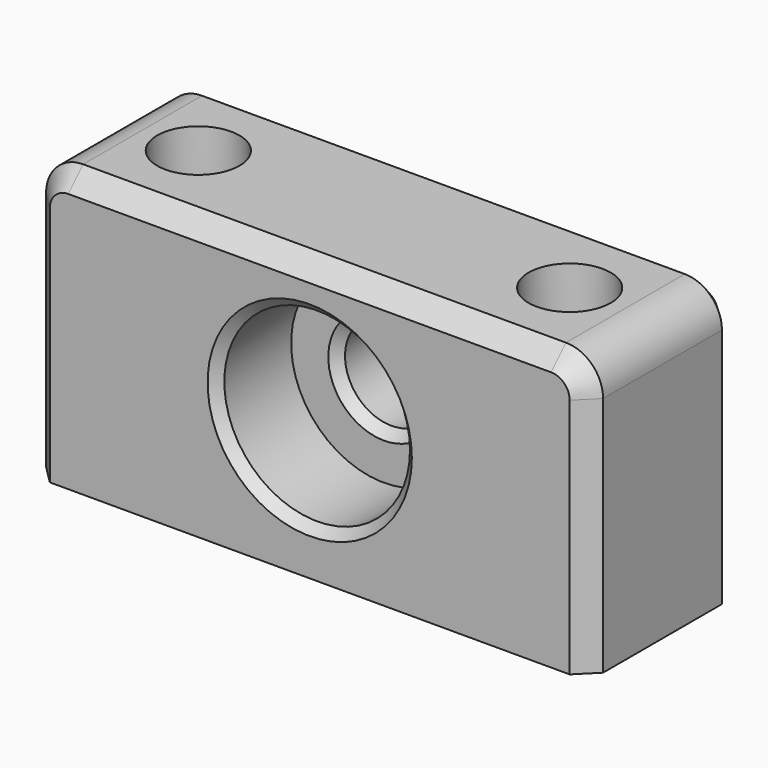
from build123d import *

# Parameters (mm, degrees)
F0_W           = 76.2
F0_H           = 38.1
F1_DEPTH       = 25.4
F2_R           = 5.08
F3_R           = 12.7
F4_DEPTH       = 12.7
F5_R           = 6.35
F6_DEPTH       = 12.701
F8_D           = 6.6
F8_CBORE_D     = 11.25
F8_CBORE_DEPTH = 6
F9_SIZE        = 2.54
F10_SIZE       = 1.27


with BuildPart() as f1:
    # F0 (on Front) → F1 (new body)
    with BuildSketch(Plane.XZ):
        with Locations((38.1, 19.05)):
            Rectangle(F0_W, F0_H)
    extrude(amount=F1_DEPTH)

    # F2
    f2_edges = [f1.edges().sort_by_distance(p)[0] for p in [
        (76.2, -12.7, 38.1),
        (0, -12.7, 38.1),
    ]]
    fillet(f2_edges, radius=F2_R)

    # F3 (on face) → F4 (cut)
    with BuildSketch(Plane.XZ.offset(25.4)):
        with Locations((38.1, 19.05)):
            Circle(F3_R)
    extrude(amount=-F4_DEPTH, mode=Mode.SUBTRACT)

    # F5 (on face) → F6 (cut, through all)
    with BuildSketch(Plane.XZ.offset(12.7)):
        with Locations((38.1, 19.05)):
            Circle(F5_R)
    extrude(amount=-F6_DEPTH, mode=Mode.SUBTRACT)

    # F8 (through all)
    with Locations(Plane.XY.offset(38.1)):
        with Locations((12.7, -12.7), (63.5, -12.7)):
            CounterBoreHole(F8_D / 2, F8_CBORE_D / 2, F8_CBORE_DEPTH)

    # F9
    f9_edges = [f1.edges().sort_by_distance(p)[0] for p in [
        (38.1, -25.4, 38.1),
        (38.1, 0, 38.1),
    ]]
    chamfer(f9_edges, length=F9_SIZE)

    # F10
    f10_edges = [f1.edges().sort_by_distance(p)[0] for p in [
        (31.75, 0, 19.05),
        (31.75, -12.7, 19.05),
        (25.4, -25.4, 19.05),
    ]]
    chamfer(f10_edges, length=F10_SIZE)


solid = f1.part
